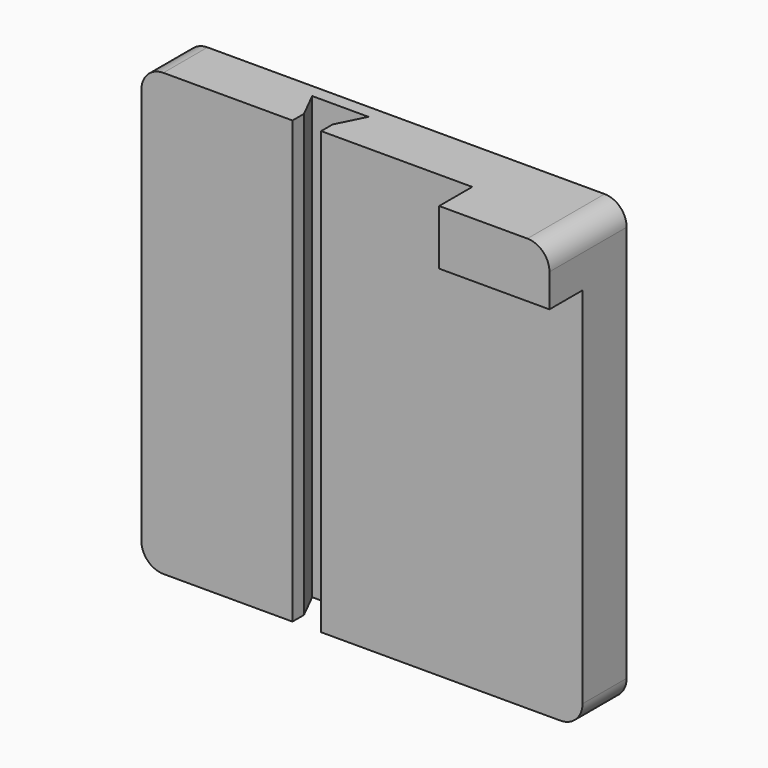
from build123d import *

# Parameters (mm, degrees)
F0_W     = 101.6
F0_H     = 101.6
F1_DEPTH = 12.7
F2_W     = 25.4
F2_H     = 12.7
F3_DEPTH = 9.525
F5_DEPTH = 101.601
F6_R     = 5.08


with BuildPart() as f1:
    # F0 (on Front) → F1 (new body)
    with BuildSketch(Plane.XZ):
        with Locations((50.8, 50.8)):
            Rectangle(F0_W, F0_H)
    extrude(amount=F1_DEPTH)

    # F2 (on face) → F3 (join)
    with BuildSketch(Plane.XZ.offset(12.7)):
        with Locations((88.9, 95.25)):
            Rectangle(F2_W, F2_H)
    extrude(amount=F3_DEPTH)

    # F4 (on face) → F5 (cut, through all)
    with BuildSketch(Plane(origin=(0, 0, 0), x_dir=(1, 0, 0), z_dir=(0, 0, -1))):
        Polygon((41.402, 12.7), (38.1, 12.7), (38.1, 3.048), (44.577, 3.048), (41.402, 9.398), align=None)
        Polygon((38.1, 3.048), (38.1, 12.7), (34.798, 12.7), (34.798, 9.398), (31.623, 3.048), align=None)
    extrude(amount=-F5_DEPTH, mode=Mode.SUBTRACT)

    # F6
    f6_edges = [f1.edges().sort_by_distance(p)[0] for p in [
        (0, -6.35, 101.6),
        (0, -6.35, 0),
        (101.6, -6.35, 0),
        (101.6, -11.1125, 101.6),
    ]]
    fillet(f6_edges, radius=F6_R)


solid = f1.part
